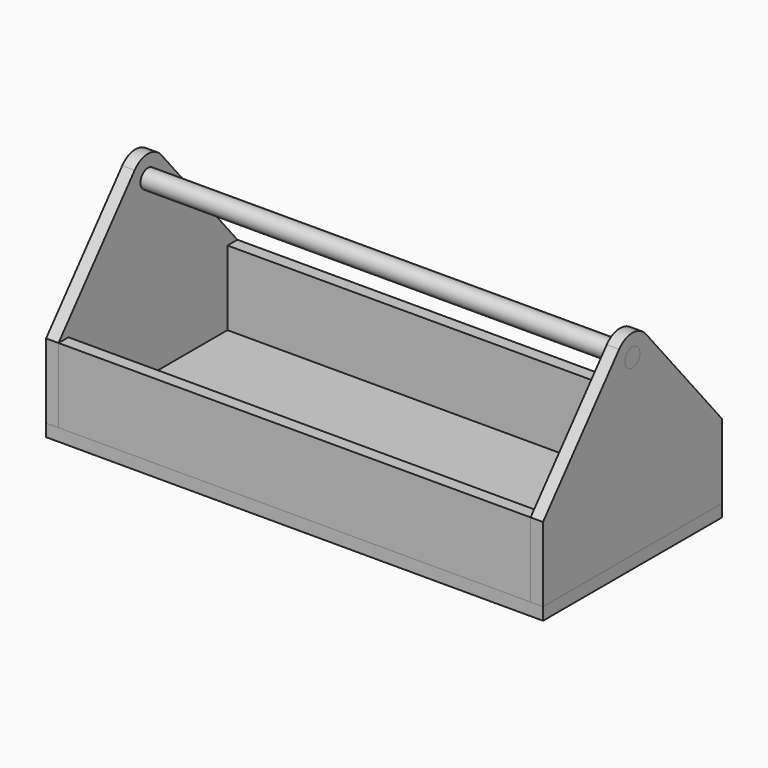
from build123d import *

# Parameters (mm, degrees)
F0_W     = 508
F0_H     = 228.6
F1_DEPTH = 12.7
F2_R     = 9.525
F3_DEPTH = 12.7
F5_W     = 482.6
F5_H     = 12.7
F6_DEPTH = 76.2
F8_DEPTH = 508


with BuildPart() as f1:
    # F0 (on Top) → F1 (new body)
    with BuildSketch(Plane.XY):
        Rectangle(F0_W, F0_H)
    extrude(amount=F1_DEPTH)


with BuildPart() as f3:
    # F2 (on face) → F3 (new body)
    with BuildSketch(Plane.YZ.offset(254)):
        with BuildLine():
            Line((-114.3, 88.9), (-114.3, 12.7))
            Line((-114.3, 12.7), (114.3, 12.7))
            Line((114.3, 12.7), (114.3, 88.9))
            Line((114.3, 88.9), (17.0228203773, 204.7889541745))
            ThreePointArc((17.0228203773, 204.7889541745), (0, 212.725), (-17.0228203773, 204.7889541745))
            Line((-17.0228203773, 204.7889541745), (-114.3, 88.9))
        make_face()
        with Locations((0, 190.5)):
            Circle(F2_R, mode=Mode.SUBTRACT)
    extrude(amount=-F3_DEPTH)


with BuildPart() as f4_1:
    # F4: instance of F3
    add(f3.part.mirror(Plane.YZ))


with BuildPart() as f6:
    # F5 (on face) → F6 (new body, through all)
    with BuildSketch(Plane.XY.offset(12.7)):
        with Locations((0, 107.95)):
            Rectangle(F5_W, F5_H)
    extrude(amount=F6_DEPTH)


with BuildPart() as f7_1:
    # F7: instance of F6
    add(f6.part.mirror(Plane.XZ))


with BuildPart() as f8:
    # F2 (on face) → F8 (new body, through all)
    with BuildSketch(Plane.YZ.offset(254)):
        with Locations((0, 190.5)):
            Circle(F2_R)
    extrude(amount=-F8_DEPTH)


solid = Compound([f1.part, f3.part, f4_1.part, f6.part, f7_1.part, f8.part])
